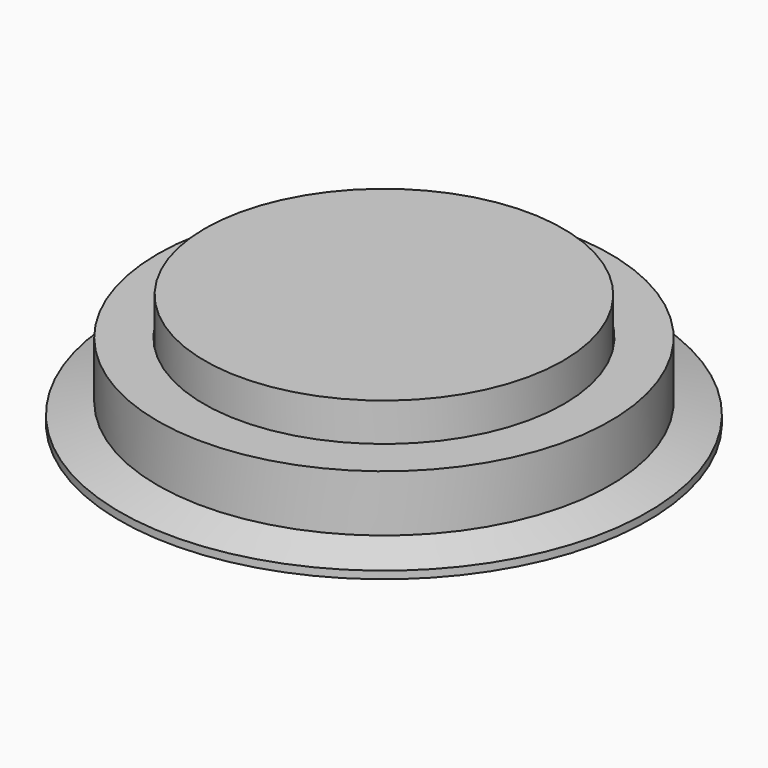
from build123d import *

# Parameters (mm, degrees)
CYLINDER_R     = 9.5
CYLINDER_DEPTH = 6


with BuildPart() as cylinder:
    # Cylinder → Cylinder (new body)
    with BuildSketch(Plane.XY):
        Circle(CYLINDER_R)
    extrude(amount=CYLINDER_DEPTH)


with BuildPart() as revolution:
    # Sketch → Revolution (revolve)
    with BuildSketch(Plane.XZ):
        Polygon((-14, 0), (-14, 0.4), (-12, 1), (-12, 4), (-9.55, 4), (-9.55, 1), (-7.55, 1), (-7.55, 0), align=None)
    revolve(axis=Axis((0, 0, 0), (0, 0, 1)))


solid = Compound([cylinder.part, revolution.part])
